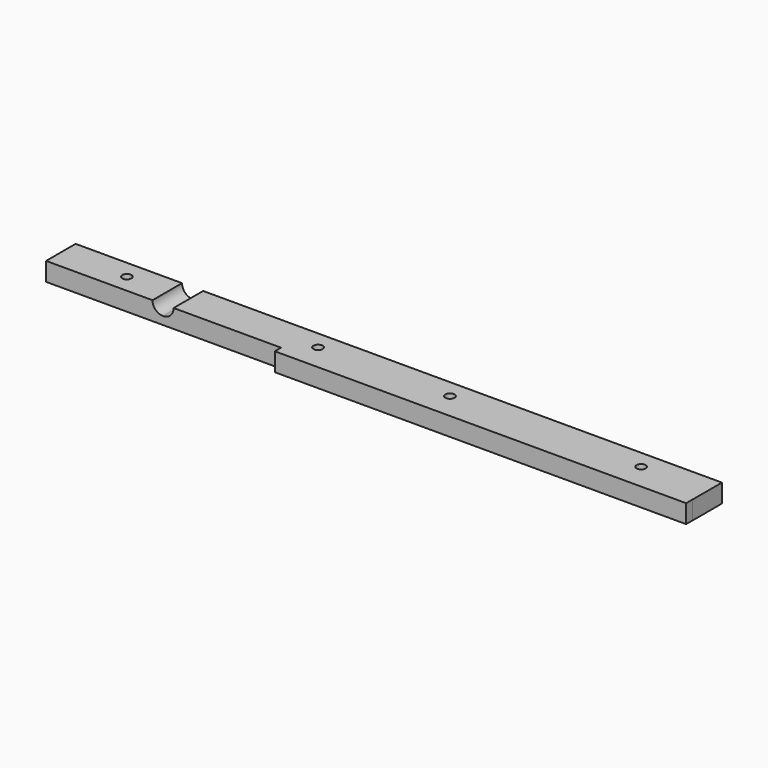
from build123d import *

# Parameters (mm, degrees)
SKETCH085_W     = 245
SKETCH085_H     = 14
SKETCH085_R     = 1.75
PAD043_DEPTH    = 7
CHAMFER010_SIZE = 2
SKETCH086_W     = 155.909408
SKETCH086_H     = 3
PAD044_DEPTH    = 7
SKETCH097_W     = 8
SKETCH097_H     = 22
POCKET043_DEPTH = 4
FILLET003_R     = 3.99


with BuildPart() as part:
    # Sketch085 → Pad043 (new body)
    with BuildSketch(Plane.XY):
        with Locations((187.5, -243.704939)):
            Rectangle(SKETCH085_W, SKETCH085_H)
        with Locations((162.5, -243.704939)):
            Circle(SKETCH085_R, mode=Mode.SUBTRACT)
        with Locations((90, -243.704939)):
            Circle(SKETCH085_R, mode=Mode.SUBTRACT)
        with Locations((212.5, -243.704939)):
            Circle(SKETCH085_R, mode=Mode.SUBTRACT)
        with Locations((285, -243.704939)):
            Circle(SKETCH085_R, mode=Mode.SUBTRACT)
    extrude(amount=PAD043_DEPTH)

    # Chamfer010
    chamfer010_edges = [part.edges().sort_by_distance(p)[0] for p in [
        (283.25, -243.704939, 0),
        (210.75, -243.704939, 0),
        (160.75, -243.704939, 0),
        (88.25, -243.704939, 0),
    ]]
    chamfer(chamfer010_edges, length=CHAMFER010_SIZE)

    # Sketch086 → Pad044 (join)
    with BuildSketch(Plane.XY):
        with Locations((232.026436, -252.13768)):
            Rectangle(SKETCH086_W, SKETCH086_H)
    extrude(amount=PAD044_DEPTH)

    # Sketch097 (on DatumPlane) → Pocket043 (cut)
    with BuildSketch(Plane.XY.offset(7)):
        with Locations((109.345456, -244.63761)):
            Rectangle(SKETCH097_W, SKETCH097_H)
    extrude(amount=-POCKET043_DEPTH, mode=Mode.SUBTRACT)

    # Fillet003
    fillet003_edges = [part.edges().sort_by_distance(p)[0] for p in [
        (113.345456, -243.704939, 3),
        (105.345456, -243.704939, 3),
    ]]
    fillet(fillet003_edges, radius=FILLET003_R)


solid = part.part
